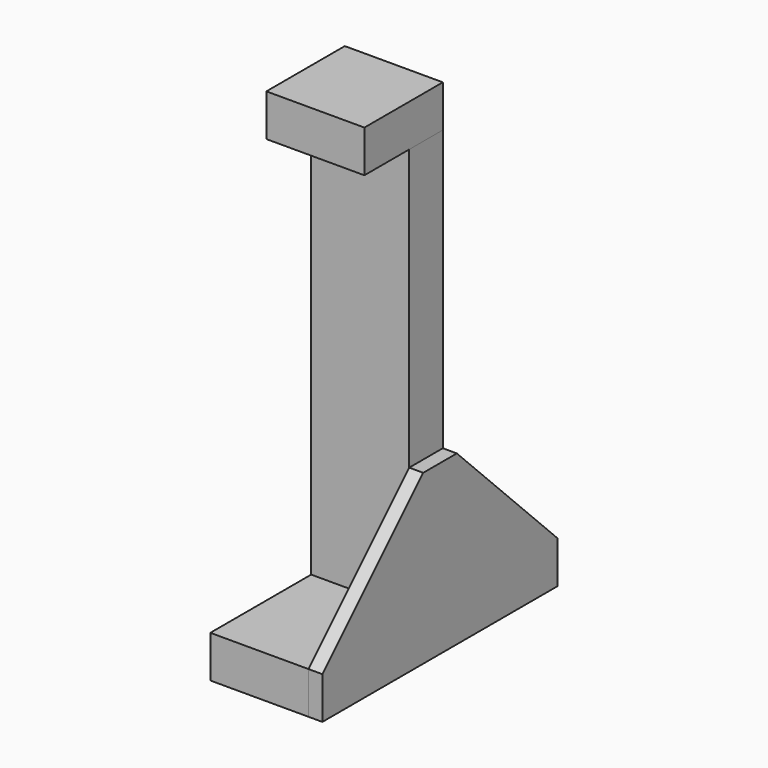
from build123d import *

# Parameters (mm, degrees)
F0_W          = 88.9
F0_H          = 38.1
F1_DEPTH      = 368.3
F2_W          = 88.9
F2_H          = 38.1
F2_H_2        = 50.8
F3_DEPTH      = 38.1
F4_W          = 88.9
F4_H          = 38.1
F5_DEPTH      = 152.4
F5_DEPTH_BACK = 114.3
F7_DEPTH      = 12.7


with BuildPart() as f1:
    # F0 (on Top) → F1 (new body)
    with BuildSketch(Plane.XY):
        with Locations((44.45, -19.05)):
            Rectangle(F0_W, F0_H)
    extrude(amount=F1_DEPTH)


with BuildPart() as f3:
    # F2 (on face) → F3 (new body)
    with BuildSketch(Plane.XY.offset(368.3)):
        with Locations((44.45, -19.05)):
            Rectangle(F2_W, F2_H)
        with Locations((44.45, -63.5)):
            Rectangle(F2_W, F2_H_2)
    extrude(amount=F3_DEPTH)


with BuildPart() as f5:
    # F4 (on Front) → F5 (new body, two sides)
    with BuildSketch(Plane.XZ) as f5_sk:
        with Locations((44.45, -19.05)):
            Rectangle(F4_W, F4_H)
    extrude(amount=F5_DEPTH)
    extrude(f5_sk.sketch, amount=-F5_DEPTH_BACK)


with BuildPart() as f7:
    # F6 (on face) → F7 (new body)
    with BuildSketch(Plane.YZ.offset(88.9)):
        Polygon((-152.4, 0), (-152.4, -38.1), (114.3, -38.1), (114.3, 0), (0, 114.3), (-38.1, 114.3), align=None)
    extrude(amount=F7_DEPTH)


solid = Compound([f1.part, f3.part, f5.part, f7.part])
